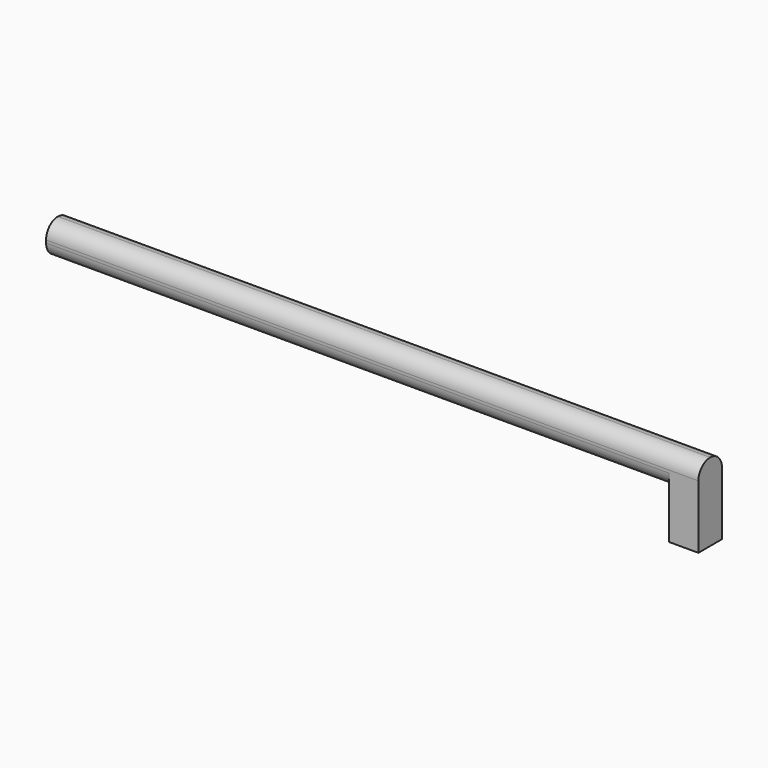
from build123d import *

# Parameters (mm, degrees)
F0_W     = 3.3884318545
F0_H     = 5.3184241988
F1_DEPTH = 3.4
F2_R     = 1.6899494937
F3_SCALE = 0.125


with BuildPart() as f1:
    # F0 (on Front) → F1 (new body)
    with BuildSketch(Plane.XZ):
        Polygon((16.7311448604, 3.6973168608), (-58.6892813444, 3.6973168608), (-58.6892813444, 0), (13.3427130058, 0), (16.7311448604, 0), align=None)
        with Locations((15.0369289331, -2.6592120994)):
            Rectangle(F0_W, F0_H)
    extrude(amount=F1_DEPTH)

    # F2
    f2_edges = [f1.edges().sort_by_distance(p)[0] for p in [
        (-20.979068, -3.4, 3.697317),
        (-20.979068, 0, 3.697317),
        (-22.673284, -3.4, 0),
        (-22.673284, 0, 0),
    ]]
    fillet(f2_edges, radius=F2_R)


with BuildPart() as f1_1:
    # F3: moved
    add(f1.part.scale(F3_SCALE))


solid = f1_1.part
